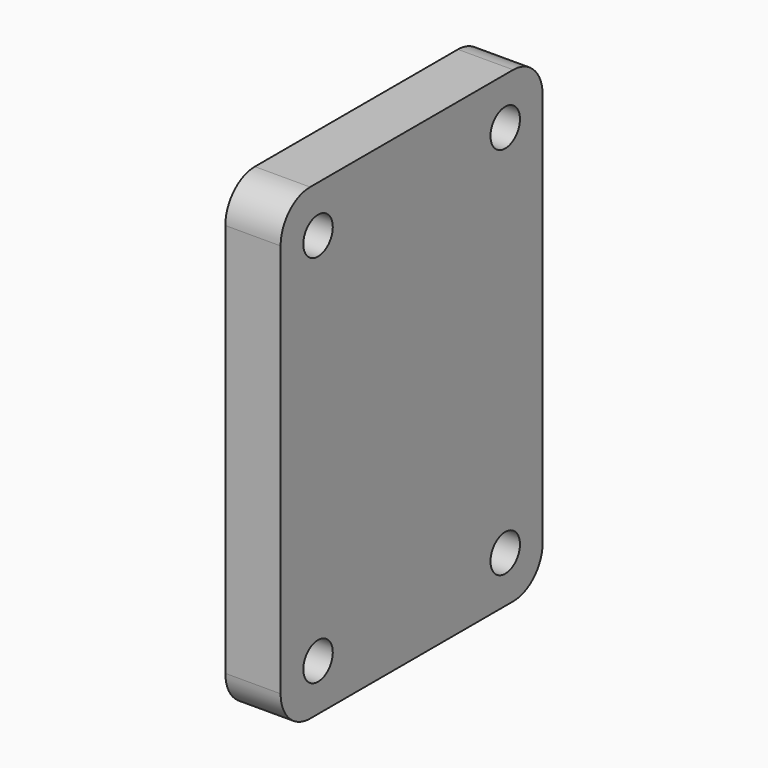
from build123d import *

# Parameters (mm, degrees)
CYLINDER004_R             = 1
CYLINDER004_DEPTH         = 10
CYLINDER005_R             = 1
CYLINDER005_DEPTH         = 10
CYLINDER006_R             = 1
CYLINDER006_DEPTH         = 10
CYLINDER007_R             = 1
CYLINDER007_DEPTH         = 10
BOX003_W                  = 25.4
BOX003_H                  = 3
BOX003_DEPTH              = 17.78
FILLET_R                  = 2
FILLET001_R               = 2
FILLET002_R               = 2
FILLET003_R               = 2
FILLET003_PITCH_ANGLE     = -90
FILLET003_PLACEMENT_ANGLE = -90


with BuildPart() as cylinder004:
    # Cylinder004 → Cylinder004 (new body)
    with BuildSketch(Plane(origin=(2.54, 0, 2.54), x_dir=(1, 0, 0), z_dir=(0, -1, 0))):
        Circle(CYLINDER004_R)
    extrude(amount=CYLINDER004_DEPTH)


with BuildPart() as fusion011:
    # Cylinder005 → Cylinder005 (new body)
    with BuildSketch(Plane(origin=(2.54, 0, 15.24), x_dir=(1, 0, 0), z_dir=(0, -1, 0))):
        Circle(CYLINDER005_R)
    extrude(amount=CYLINDER005_DEPTH)

    # Fusion011: union Cylinder004
    add(cylinder004.part)


with BuildPart() as cylinder006:
    # Cylinder006 → Cylinder006 (new body)
    with BuildSketch(Plane(origin=(2.54, 0, 2.54), x_dir=(1, 0, 0), z_dir=(0, -1, 0))):
        Circle(CYLINDER006_R)
    extrude(amount=CYLINDER006_DEPTH)


with BuildPart() as fusion013:
    # Cylinder007 → Cylinder007 (new body)
    with BuildSketch(Plane(origin=(2.54, 0, 15.24), x_dir=(1, 0, 0), z_dir=(0, -1, 0))):
        Circle(CYLINDER007_R)
    extrude(amount=CYLINDER007_DEPTH)

    # Fusion012: union Cylinder006
    add(cylinder006.part)


with BuildPart() as fusion013_1:
    # Fusion012 placement: moved
    add(fusion013.part.moved(Location((20.32, 0, 0))))

    # Fusion013: union Fusion011
    add(fusion011.part)


with BuildPart() as fusion013_2:
    # Fusion013 placement: moved
    add(fusion013_1.part.moved(Location((0, 3, 0))))


with BuildPart() as obj1:
    # Box003 → Box003 (new body)
    with BuildSketch(Plane.XY):
        with Locations((12.7, 1.5)):
            Rectangle(BOX003_W, BOX003_H)
    extrude(amount=BOX003_DEPTH)

    # Cut: cut Fusion013
    add(fusion013_2.part, mode=Mode.SUBTRACT)

    # Fillet
    fillet_edges = [obj1.edges().sort_by_distance(p)[0] for p in [
        (0, 1.5, 17.78),
    ]]
    fillet(fillet_edges, radius=FILLET_R)

    # Fillet001
    fillet001_edges = [obj1.edges().sort_by_distance(p)[0] for p in [
        (0, 1.5, 0),
    ]]
    fillet(fillet001_edges, radius=FILLET001_R)

    # Fillet002
    fillet002_edges = [obj1.edges().sort_by_distance(p)[0] for p in [
        (25.4, 1.5, 0),
    ]]
    fillet(fillet002_edges, radius=FILLET002_R)

    # Fillet003
    fillet003_edges = [obj1.edges().sort_by_distance(p)[0] for p in [
        (25.4, 1.5, 17.78),
    ]]
    fillet(fillet003_edges, radius=FILLET003_R)


with BuildPart() as obj1_1:
    # Fillet003 pitch: moved
    add(obj1.part.rotate(Axis((0, 0, 0), (0, 1, 0)), FILLET003_PITCH_ANGLE))


with BuildPart() as obj1_2:
    # Fillet003 placement: moved
    add(obj1_1.part.moved(Location((71, -17.75, -5))).rotate(Axis((71, -17.75, -5), (0, 0, 1)), FILLET003_PLACEMENT_ANGLE))


solid = obj1_2.part
